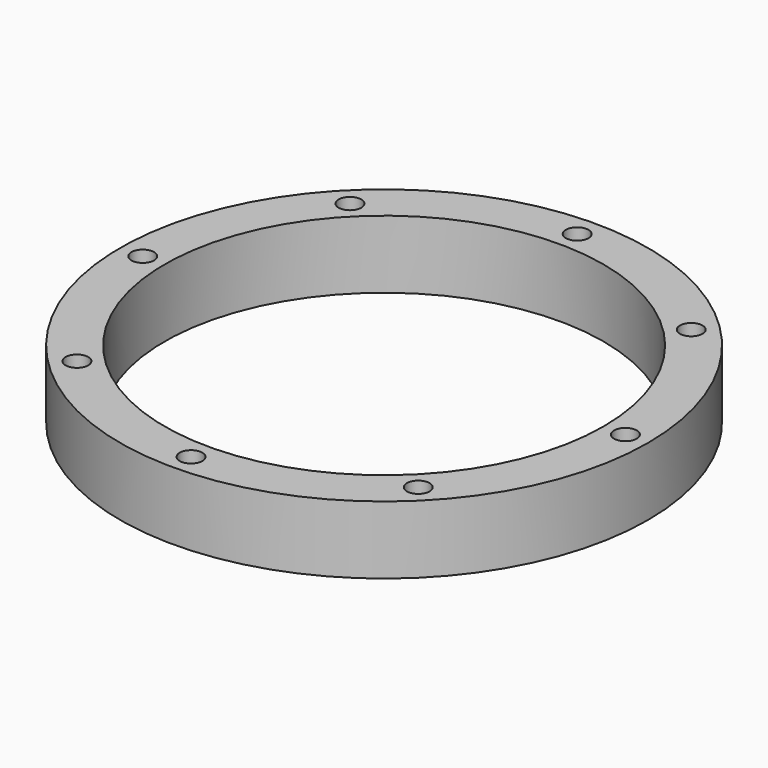
from build123d import *

# Parameters (mm, degrees)
CYLINDER1752_R               = 1.5
CYLINDER1752_DEPTH           = 30
CYLINDER1752_PLACEMENT_ANGLE = 45
CYLINDER1753_R               = 1.5
CYLINDER1753_DEPTH           = 30
CYLINDER1754_R               = 1.5
CYLINDER1754_DEPTH           = 30
CYLINDER1754_PLACEMENT_ANGLE = 135
CYLINDER1750_R               = 1.5
CYLINDER1750_DEPTH           = 30
CYLINDER1748_R               = 1.5
CYLINDER1748_DEPTH           = 30
CYLINDER1748_PLACEMENT_ANGLE = 225
CYLINDER1751_R               = 1.5
CYLINDER1751_DEPTH           = 30
CYLINDER1749_R               = 1.5
CYLINDER1749_DEPTH           = 30
CYLINDER1749_PLACEMENT_ANGLE = 45
CYLINDER1755_R               = 1.5
CYLINDER1755_DEPTH           = 30
TUBE089_R                    = 35
TUBE089_R_2                  = 29.1
TUBE089_DEPTH                = 9


with BuildPart() as obj1:
    # Cylinder1752 → Cylinder1752 (new body)
    with BuildSketch(Plane.XY):
        Circle(CYLINDER1752_R)
    extrude(amount=CYLINDER1752_DEPTH)


with BuildPart() as obj1_1:
    # Cylinder1752 placement: moved
    add(obj1.part.moved(Location((22.627417, -22.627417, 0))).rotate(Axis((22.627417, -22.627417, 0), (0, 0, 1)), CYLINDER1752_PLACEMENT_ANGLE))


with BuildPart() as obj2:
    # Cylinder1753 → Cylinder1753 (new body)
    with BuildSketch(Plane(origin=(32, 0, 0), x_dir=(0, 1, 0), z_dir=(0, 0, 1))):
        Circle(CYLINDER1753_R)
    extrude(amount=CYLINDER1753_DEPTH)


with BuildPart() as obj3:
    # Cylinder1754 → Cylinder1754 (new body)
    with BuildSketch(Plane.XY):
        Circle(CYLINDER1754_R)
    extrude(amount=CYLINDER1754_DEPTH)


with BuildPart() as obj3_1:
    # Cylinder1754 placement: moved
    add(obj3.part.moved(Location((22.627417, 22.627417, 0))).rotate(Axis((22.627417, 22.627417, 0), (0, 0, 1)), CYLINDER1754_PLACEMENT_ANGLE))


with BuildPart() as obj4:
    # Cylinder1750 → Cylinder1750 (new body)
    with BuildSketch(Plane(origin=(0, 32, 0), x_dir=(-1, 0, 0), z_dir=(0, 0, 1))):
        Circle(CYLINDER1750_R)
    extrude(amount=CYLINDER1750_DEPTH)


with BuildPart() as obj5:
    # Cylinder1748 → Cylinder1748 (new body)
    with BuildSketch(Plane.XY):
        Circle(CYLINDER1748_R)
    extrude(amount=CYLINDER1748_DEPTH)


with BuildPart() as obj5_1:
    # Cylinder1748 placement: moved
    add(obj5.part.moved(Location((-22.627417, 22.627417, 0))).rotate(Axis((-22.627417, 22.627417, 0), (0, 0, 1)), CYLINDER1748_PLACEMENT_ANGLE))


with BuildPart() as obj6:
    # Cylinder1751 → Cylinder1751 (new body)
    with BuildSketch(Plane(origin=(-32, 0, 0), x_dir=(0, -1, 0), z_dir=(0, 0, 1))):
        Circle(CYLINDER1751_R)
    extrude(amount=CYLINDER1751_DEPTH)


with BuildPart() as obj7:
    # Cylinder1749 → Cylinder1749 (new body)
    with BuildSketch(Plane.XY):
        Circle(CYLINDER1749_R)
    extrude(amount=CYLINDER1749_DEPTH)


with BuildPart() as obj7_1:
    # Cylinder1749 placement: moved
    add(obj7.part.moved(Location((-22.627417, -22.627417, 0))).rotate(Axis((-22.627417, -22.627417, 0), (0, 0, -1)), CYLINDER1749_PLACEMENT_ANGLE))


with BuildPart() as compound879:
    # Cylinder1755 → Cylinder1755 (new body)
    with BuildSketch(Plane(origin=(0, -32, 0), x_dir=(1, 0, 0), z_dir=(0, 0, 1))):
        Circle(CYLINDER1755_R)
    extrude(amount=CYLINDER1755_DEPTH)

    # Compound879: union obj1, obj2, obj3, obj4, obj5, obj6, obj7
    add(obj1_1.part)
    add(obj2.part)
    add(obj3_1.part)
    add(obj4.part)
    add(obj5_1.part)
    add(obj6.part)
    add(obj7_1.part)


with BuildPart() as cut508:
    # Tube089 → Tube089 (new body)
    with BuildSketch(Plane.XY.offset(16)):
        Circle(TUBE089_R)
        Circle(TUBE089_R_2, mode=Mode.SUBTRACT)
    extrude(amount=TUBE089_DEPTH)

    # Cut508: cut Compound879
    add(compound879.part, mode=Mode.SUBTRACT)


solid = cut508.part
